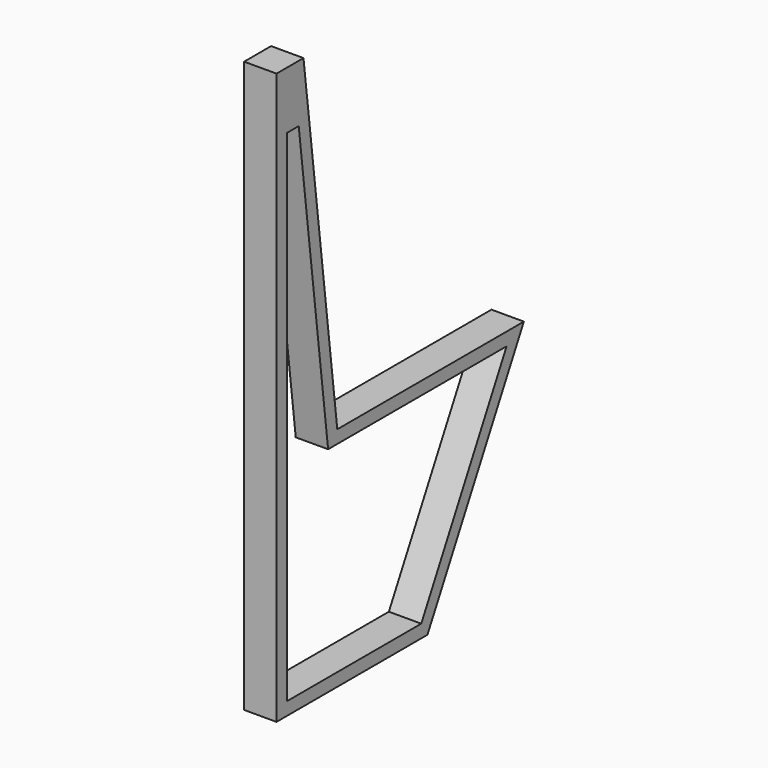
from build123d import *

# Parameters (mm, degrees)
F1_DEPTH = 50


with BuildPart() as f1:
    # F0 (on Right) → F1 (new body)
    with BuildSketch(Plane.YZ):
        Polygon((291.235352, 0), (477.245693, 350), (117.245693, 350), (52.053801, 880.945354), (0, 880.945354), (0, 0), align=None)
        Polygon((279.215473, 20), (20, 20), (20, 792.253196), (42.793632, 792.253196), (99.551188, 330), (443.967489, 330), align=None, mode=Mode.SUBTRACT)
    extrude(amount=-F1_DEPTH)


solid = f1.part
